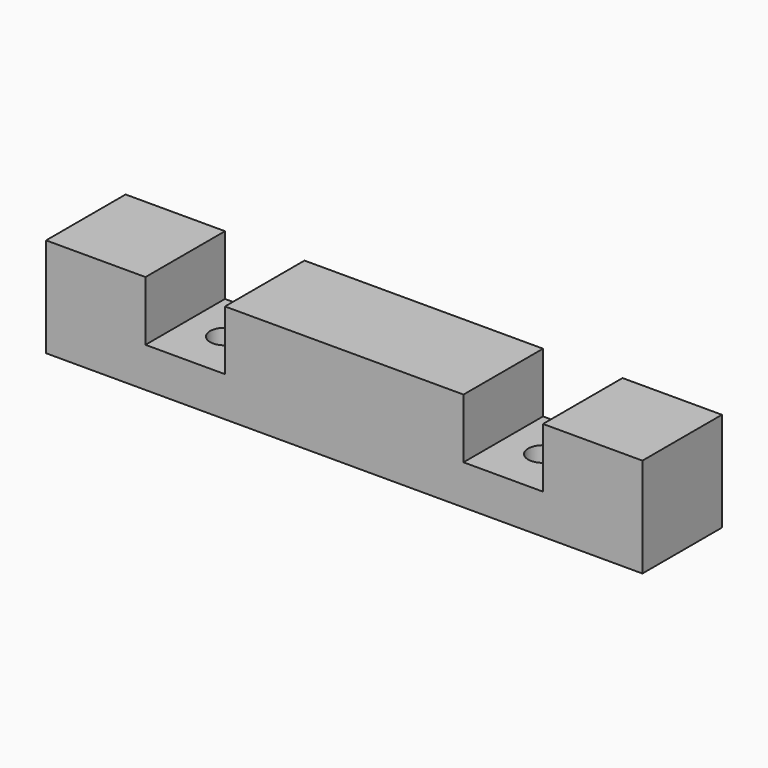
from build123d import *

# Parameters (mm, degrees)
F0_W           = 60
F0_H           = 10
F1_DEPTH       = 4
F2_W           = 10
F2_H           = 10
F2_W_2         = 24
F3_DEPTH       = 6
F5_D           = 3
F5_CSINK_D     = 5
F5_CSINK_ANGLE = 90


with BuildPart() as f1:
    # F0 (on Top) → F1 (new body)
    with BuildSketch(Plane.XY):
        Rectangle(F0_W, F0_H)
    extrude(amount=F1_DEPTH)

    # F2 (on face) → F3 (join)
    with BuildSketch(Plane.XY.offset(4)):
        with Locations((-25, 0)):
            Rectangle(F2_W, F2_H)
        Rectangle(F2_W_2, F2_H)
        with Locations((25, 0)):
            Rectangle(F2_W, F2_H)
    extrude(amount=F3_DEPTH)

    # F5 (through all)
    with Locations(Plane(origin=(0, 0, 0), x_dir=(1, 0, 0), z_dir=(0, 0, -1))):
        with Locations((-16, 0), (16, 0)):
            CounterSinkHole(F5_D / 2, F5_CSINK_D / 2, counter_sink_angle=F5_CSINK_ANGLE)


solid = f1.part
